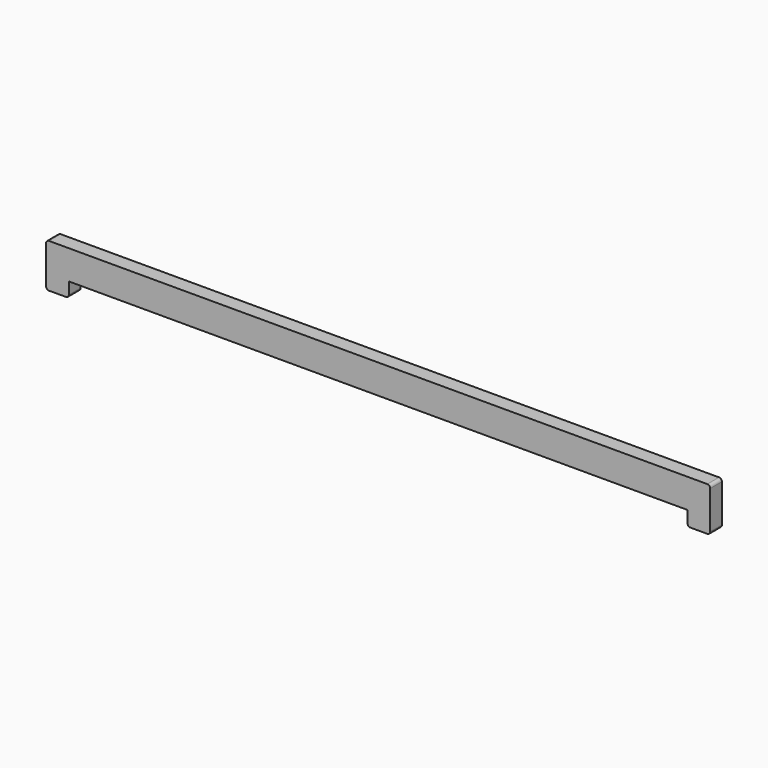
from build123d import *

# Parameters (mm, degrees)
F1_DEPTH = 6.35


with BuildPart() as f1:
    # F0 (on Front) → F1 (new body)
    with BuildSketch(Plane.XZ):
        with BuildLine():
            Line((0, 17.78), (0, 1.27))
            ThreePointArc((0, 1.27), (0.371974, 0.371974), (1.27, 0))
            Line((1.27, 0), (8.636, 0))
            ThreePointArc((8.636, 0), (9.534026, 0.371974), (9.906, 1.27))
            Line((9.906, 1.27), (9.906, 6.35))
            Line((9.906, 6.35), (278.892, 6.35))
            Line((278.892, 6.35), (278.892, 1.27))
            ThreePointArc((278.892, 1.27), (279.263974, 0.371974), (280.162, 0))
            Line((280.162, 0), (287.528, 0))
            ThreePointArc((287.528, 0), (288.426026, 0.371974), (288.798, 1.27))
            Line((288.798, 1.27), (288.798, 17.78))
            ThreePointArc((288.798, 17.78), (288.426026, 18.678026), (287.528, 19.05))
            Line((287.528, 19.05), (1.27, 19.05))
            ThreePointArc((1.27, 19.05), (0.371974, 18.678026), (0, 17.78))
        make_face()
    extrude(amount=F1_DEPTH)


solid = f1.part
